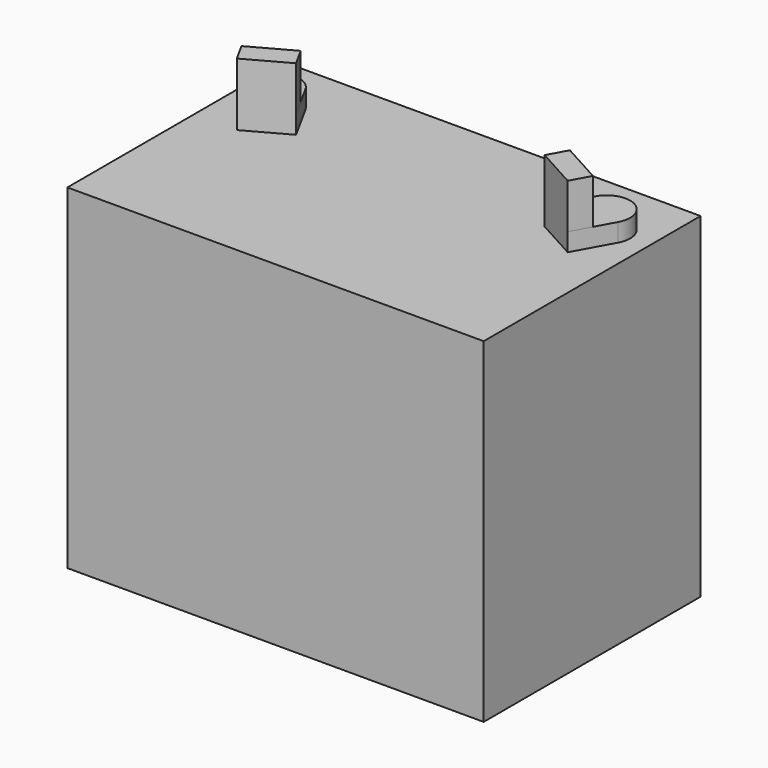
from build123d import *

# Parameters (mm, degrees)
SKETCH016_W  = 195
SKETCH016_H  = 127
PAD012_DEPTH = 157
PAD013_DEPTH = 8.5
PAD014_DEPTH = 21


with BuildPart() as part:
    # Sketch016 → Pad012 (new body)
    with BuildSketch(Plane.XY):
        with Locations((97.5, -63.5)):
            Rectangle(SKETCH016_W, SKETCH016_H)
    extrude(amount=PAD012_DEPTH)

    # Sketch017 (on Face6 of Pad012) → Pad013 (join)
    with BuildSketch(Plane.XY.offset(157)):
        with BuildLine():
            ThreePointArc((29.6383749954, -24.6988937525), (14.6988937525, -20.3616250046), (10.3616250046, -35.3011062475))
            Line((10.3616250046, -35.3011062475), (20, -52.825424421))
            Line((20, -52.825424421), (39.2767499909, -42.223211926))
            Line((39.2767499909, -42.223211926), (29.6383749954, -24.6988937525))
        make_face()
        with BuildLine():
            Line((175, -52.825424421), (184.6383749954, -35.3011062475))
            ThreePointArc((184.6383749954, -35.3011062475), (180.3011062475, -20.3616250046), (165.3616250046, -24.6988937525))
            Line((165.3616250046, -24.6988937525), (155.7232500091, -42.223211926))
            Line((155.7232500091, -42.223211926), (175, -52.825424421))
        make_face()
    extrude(amount=PAD013_DEPTH)

    # Sketch018 (on Face15 of Pad013) → Pad014 (join)
    with BuildSketch(Plane.XY.offset(165.5)):
        Polygon((20, -52.825424421), (39.2767499909, -42.223211926), (34.4575624932, -33.4610528393), (15.1808125023, -44.0632653343), align=None)
        Polygon((155.7232500091, -42.223211926), (175, -52.825424421), (179.8191874977, -44.0632653343), (160.5424375068, -33.4610528393), align=None)
    extrude(amount=PAD014_DEPTH)


with BuildPart() as part_1:
    # Body005 placement: moved
    add(part.part.moved(Location((-29, 485, 0))))


solid = part_1.part
